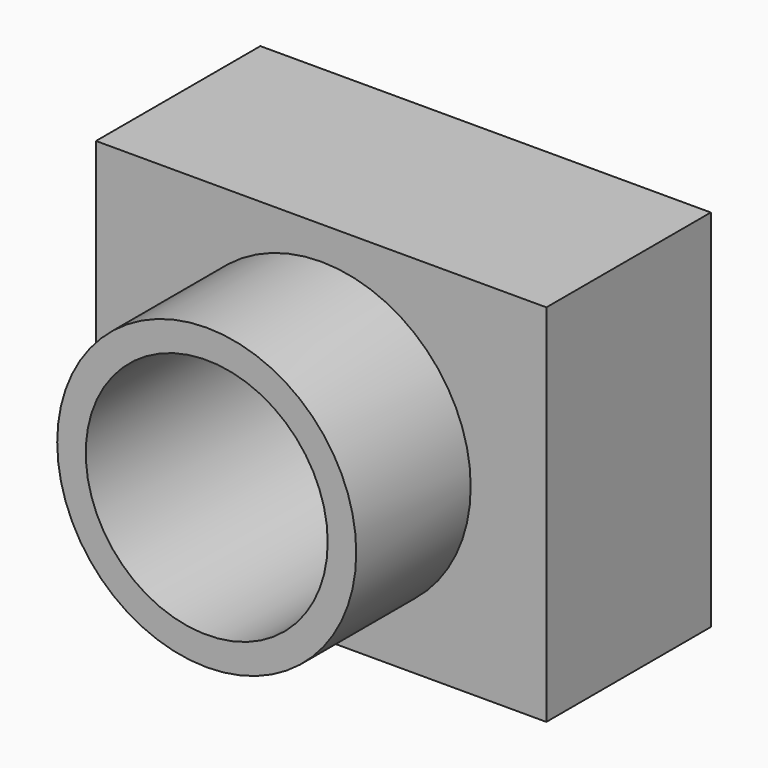
from build123d import *

# Parameters (mm, degrees)
F0_W     = 173.159688
F0_H     = 140.307262
F0_R     = 46.510745
F1_DEPTH = 79
F2_R     = 57.480173
F2_R_2   = 46.510745
F3_DEPTH = 55


with BuildPart() as f1:
    # F0 (on Front) → F1 (new body)
    with BuildSketch(Plane.XZ):
        Rectangle(F0_W, F0_H)
        Circle(F0_R, mode=Mode.SUBTRACT)
    extrude(amount=-F1_DEPTH)

    # F2 (on face) → F3 (join)
    with BuildSketch(Plane.XZ):
        Circle(F2_R)
        Circle(F2_R_2, mode=Mode.SUBTRACT)
    extrude(amount=F3_DEPTH)


solid = f1.part
